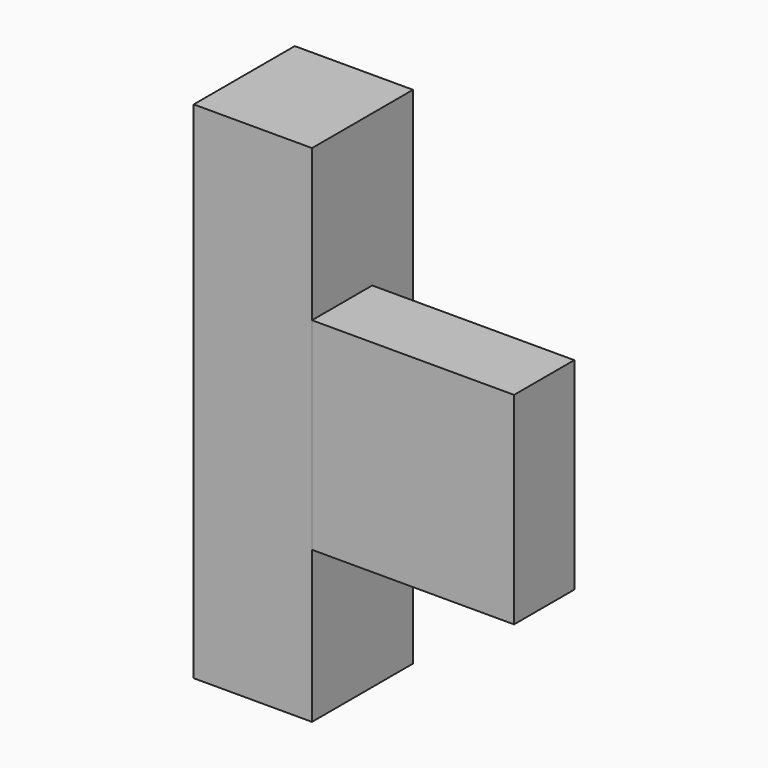
from build123d import *

# Parameters (mm, degrees)
F0_W     = 23.412162
F0_H     = 100
F1_DEPTH = 25
F2_W     = 14.901995
F2_H     = 20
F3_DEPTH = 40


with BuildPart() as f1:
    # F0 (on Front) → F1 (new body)
    with BuildSketch(Plane.XZ):
        with Locations((11.706081, 50)):
            Rectangle(F0_W, F0_H)
    extrude(amount=F1_DEPTH)

    # F2 (on face) → F3 (join)
    with BuildSketch(Plane.YZ.offset(23.412162)):
        with Locations((-17.549003, 60)):
            Rectangle(F2_W, F2_H)
        with Locations((-17.549003, 40)):
            Rectangle(F2_W, F2_H)
    extrude(amount=F3_DEPTH)


solid = f1.part
